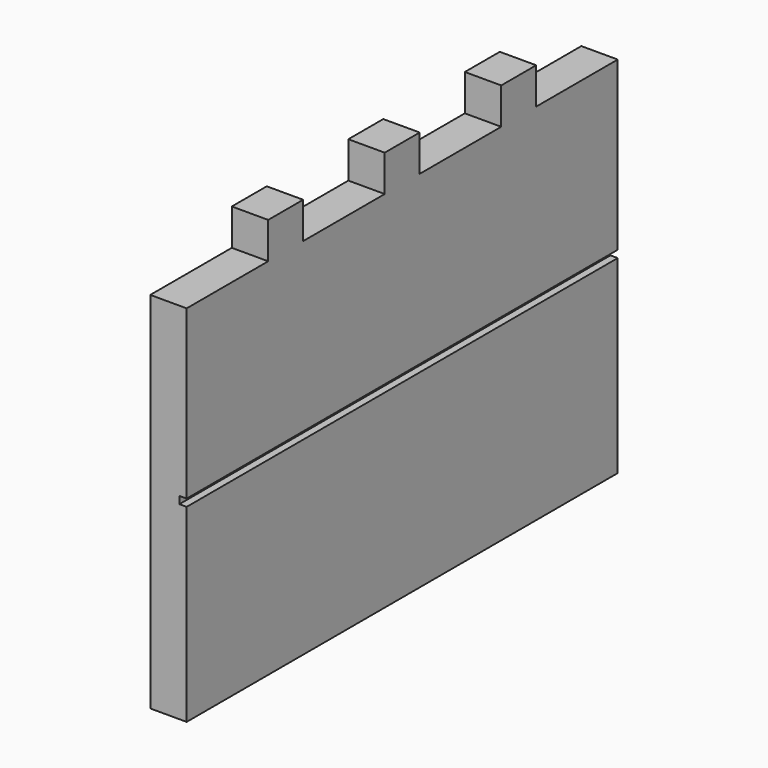
from build123d import *

# Parameters (mm, degrees)
F0_W     = 30
F0_H     = 25
F1_DEPTH = 25
F2_W     = 370
F2_H     = 5
F3_DEPTH = 5


with BuildPart() as f1:
    # F0 (on Right) → F1 (new body)
    with BuildSketch(Plane.YZ):
        Polygon((-113.378677, 99.734239), (-183.378677, 99.734239), (-183.378677, -150.265761), (186.621323, -150.265761), (186.621323, 99.734239), (116.621323, 99.734239), (86.621323, 99.734239), (16.621323, 99.734239), (-13.378677, 99.734239), (-83.378677, 99.734239), align=None)
        with Locations((-98.378677, 112.234239)):
            Rectangle(F0_W, F0_H)
        with Locations((1.621323, 112.234239)):
            Rectangle(F0_W, F0_H)
        with Locations((101.621323, 112.234239)):
            Rectangle(F0_W, F0_H)
    extrude(amount=F1_DEPTH)

    # F2 (on face) → F3 (cut)
    with BuildSketch(Plane.YZ.offset(25)):
        with Locations((1.621323, -17.765761)):
            Rectangle(F2_W, F2_H)
    extrude(amount=-F3_DEPTH, mode=Mode.SUBTRACT)


solid = f1.part
